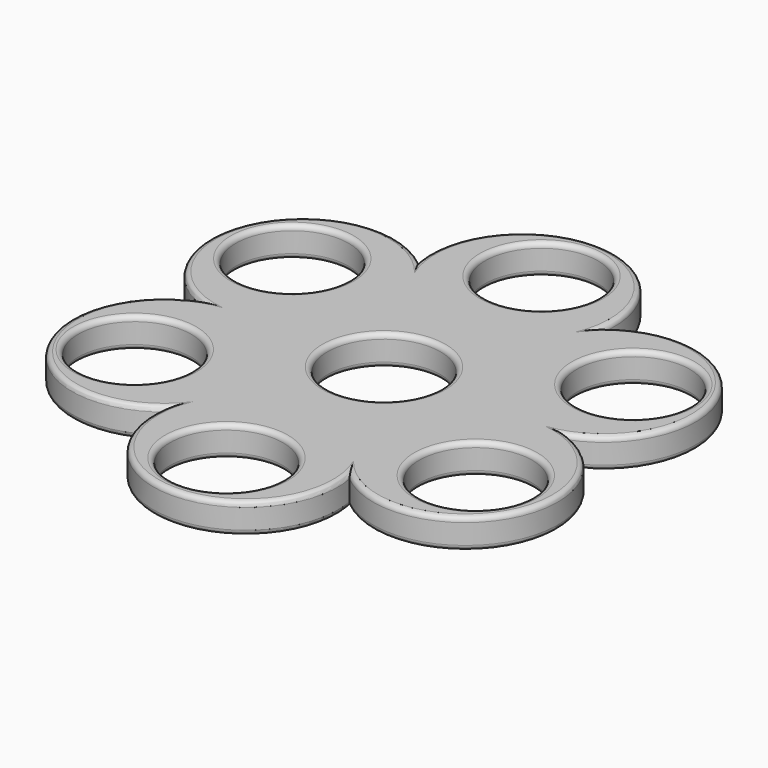
from build123d import *

# Parameters (mm, degrees)
F0_R     = 11.25
F1_DEPTH = 6
F2_R     = 1


with BuildPart() as f1:
    # F0 (on Top) → F1 (new body)
    with BuildSketch(Plane.XY):
        with BuildLine():
            ThreePointArc((36.269169, 0.093158), (45.79121, 26.594621), (18.053907, 31.456601))
            ThreePointArc((18.053907, 31.456601), (-0.136013, 52.953662), (-18.215262, 31.363443))
            ThreePointArc((-18.215262, 31.363443), (-45.927223, 26.359041), (-36.269169, -0.093158))
            ThreePointArc((-36.269169, -0.093158), (-45.79121, -26.594621), (-18.053907, -31.456601))
            ThreePointArc((-18.053907, -31.456601), (0.136013, -52.953662), (18.215262, -31.363443))
            ThreePointArc((18.215262, -31.363443), (45.927223, -26.359041), (36.269169, 0.093158))
        make_face()
        with Locations((0, -39.224714)):
            Circle(F0_R, mode=Mode.SUBTRACT)
        with Locations((-33.969599, -19.612357)):
            Circle(F0_R, mode=Mode.SUBTRACT)
        with Locations((33.969599, -19.612357)):
            Circle(F0_R, mode=Mode.SUBTRACT)
        with Locations((-33.969599, 19.612357)):
            Circle(F0_R, mode=Mode.SUBTRACT)
        Circle(F0_R, mode=Mode.SUBTRACT)
        with Locations((0, 39.224714)):
            Circle(F0_R, mode=Mode.SUBTRACT)
        with Locations((33.969599, 19.612357)):
            Circle(F0_R, mode=Mode.SUBTRACT)
    extrude(amount=F1_DEPTH)

    # F2
    f2_edges = [f1.edges().sort_by_distance(p)[0] for p in [
        (0.136013, -52.953662, 6),
        (45.927223, -26.359041, 6),
        (45.927223, -26.359041, 0),
        (0.136013, -52.953662, 0),
        (45.79121, 26.594621, 6),
        (45.79121, 26.594621, 0),
        (-0.136013, 52.953662, 6),
        (-45.927223, 26.359041, 6),
        (-45.79121, -26.594621, 6),
        (-11.25, -39.224714, 6),
        (-45.219599, -19.612357, 6),
        (22.719599, -19.612357, 6),
        (-45.219599, 19.612357, 6),
        (-11.25, 0, 6),
        (-11.25, 39.224714, 6),
        (22.719599, 19.612357, 6),
        (-0.136013, 52.953662, 0),
        (-45.927223, 26.359041, 0),
        (-45.79121, -26.594621, 0),
        (-11.25, -39.224714, 0),
        (-45.219599, -19.612357, 0),
        (22.719599, -19.612357, 0),
        (-45.219599, 19.612357, 0),
        (-11.25, 0, 0),
        (-11.25, 39.224714, 0),
        (22.719599, 19.612357, 0),
    ]]
    fillet(f2_edges, radius=F2_R)


solid = f1.part
